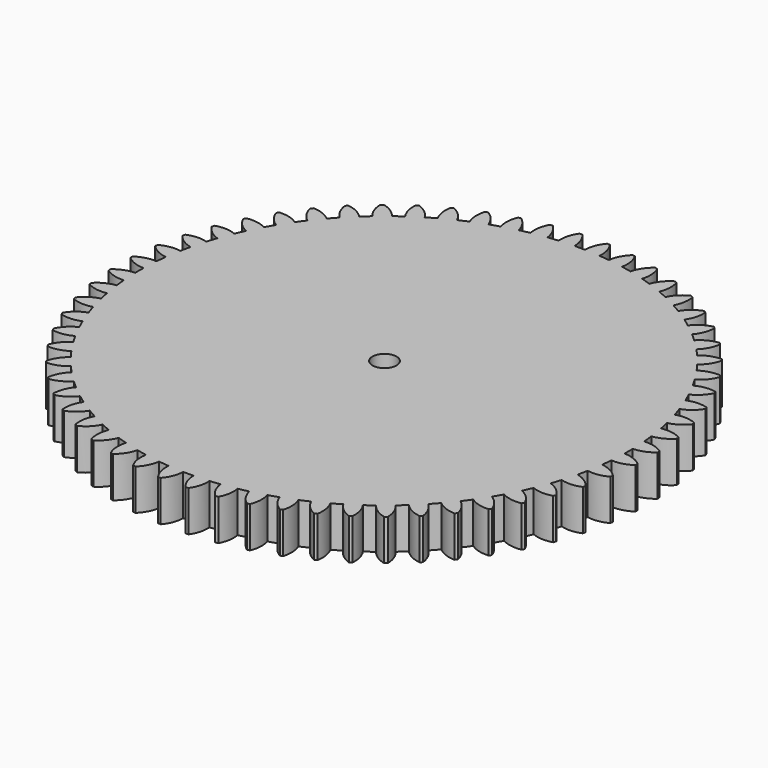
from build123d import *

# Parameters (mm, degrees)
F0_R     = 1.5
F1_DEPTH = 5.08


with BuildPart() as f1:
    # F0 (on Top) → F1 (new body)
    with BuildSketch(Plane.XY):
        with BuildLine():
            Line((-18.010199, -27.417908), (-17.722097, -27.605004))
            ThreePointArc((-17.722097, -27.605004), (-16.600582, -26.983649), (-15.757087, -26.018042))
            ThreePointArc((-15.757087, -26.018042), (-15.208743, -26.342316), (-14.653742, -26.655058))
            ThreePointArc((-14.653742, -26.655058), (-15.068234, -27.86835), (-15.045586, -29.150289))
            Line((-15.045586, -29.150289), (-14.739505, -29.306244))
            ThreePointArc((-14.739505, -29.306244), (-13.689083, -28.571063), (-12.951142, -27.522577))
            ThreePointArc((-12.951142, -27.522577), (-12.371906, -27.787756), (-11.787255, -28.040772))
            ThreePointArc((-11.787255, -28.040772), (-12.072653, -29.290744), (-11.91613, -30.563292))
            Line((-11.91613, -30.563292), (-11.595424, -30.6864))
            ThreePointArc((-11.595424, -30.6864), (-10.627603, -29.845446), (-10.003301, -28.725568))
            ThreePointArc((-10.003301, -28.725568), (-9.39952, -28.928749), (-8.791625, -29.119266))
            ThreePointArc((-8.791625, -29.119266), (-8.944802, -30.392222), (-8.656118, -31.641438))
            Line((-8.656118, -31.641438), (-8.324301, -31.730348))
            ThreePointArc((-8.324301, -31.730348), (-7.449685, -30.792837), (-6.945863, -29.613836))
            ThreePointArc((-6.945863, -29.613836), (-6.324151, -29.752791), (-5.699671, -29.878722))
            ThreePointArc((-5.699671, -29.878722), (-5.718949, -31.160716), (-5.301268, -32.372914))
            Line((-5.301268, -32.372914), (-4.961975, -32.426652))
            ThreePointArc((-4.961975, -32.426652), (-4.190147, -31.402855), (-3.812324, -30.177649))
            ThreePointArc((-3.812324, -30.177649), (-3.179493, -30.250856), (-2.545271, -30.310822))
            ThreePointArc((-2.545271, -30.310822), (-2.430438, -31.587808), (-1.888336, -32.749705))
            Line((-1.888336, -32.749705), (-1.545285, -32.767683))
            ThreePointArc((-1.545285, -32.767683), (-0.884701, -31.668816), (-0.637016, -30.410829))
            ThreePointArc((-0.637016, -30.410829), (0, -30.417486), (0.637016, -30.410829))
            ThreePointArc((0.637016, -30.410829), (0.884701, -31.668816), (1.545285, -32.767683))
            Line((1.545285, -32.767683), (1.888336, -32.749705))
            ThreePointArc((1.888336, -32.749705), (2.430438, -31.587808), (2.545271, -30.310822))
            ThreePointArc((2.545271, -30.310822), (3.179493, -30.250856), (3.812324, -30.177649))
            ThreePointArc((3.812324, -30.177649), (4.190147, -31.402855), (4.961975, -32.426652))
            Line((4.961975, -32.426652), (5.301268, -32.372914))
            ThreePointArc((5.301268, -32.372914), (5.718949, -31.160716), (5.699671, -29.878722))
            ThreePointArc((5.699671, -29.878722), (6.324151, -29.752791), (6.945863, -29.613836))
            ThreePointArc((6.945863, -29.613836), (7.449685, -30.792837), (8.324301, -31.730348))
            Line((8.324301, -31.730348), (8.656118, -31.641438))
            ThreePointArc((8.656118, -31.641438), (8.944802, -30.392222), (8.791625, -29.119266))
            ThreePointArc((8.791625, -29.119266), (9.39952, -28.928749), (10.003301, -28.725568))
            ThreePointArc((10.003301, -28.725568), (10.627603, -29.845446), (11.595424, -30.6864))
            Line((11.595424, -30.6864), (11.91613, -30.563292))
            ThreePointArc((11.91613, -30.563292), (12.072653, -29.290744), (11.787255, -28.040772))
            ThreePointArc((11.787255, -28.040772), (12.371906, -27.787756), (12.951142, -27.522577))
            ThreePointArc((12.951142, -27.522577), (13.689083, -28.571063), (14.739505, -29.306244))
            Line((14.739505, -29.306244), (15.045586, -29.150289))
            ThreePointArc((15.045586, -29.150289), (15.068234, -27.86835), (14.653742, -26.655058))
            ThreePointArc((14.653742, -26.655058), (15.208743, -26.342316), (15.757087, -26.018042))
            ThreePointArc((15.757087, -26.018042), (16.600582, -26.983649), (17.722097, -27.605004))
            Line((17.722097, -27.605004), (18.010199, -27.417908))
            ThreePointArc((18.010199, -27.417908), (17.898725, -26.140625), (17.35968, -24.977306))
            ThreePointArc((17.35968, -24.977306), (17.87895, -24.608263), (18.390394, -24.228449))
            ThreePointArc((18.390394, -24.228449), (19.330201, -25.100596), (20.510523, -25.601317))
            Line((20.510523, -25.601317), (20.777489, -25.385132))
            ThreePointArc((20.777489, -25.385132), (20.533113, -24.126497), (19.875421, -23.025897))
            ThreePointArc((19.875421, -23.025897), (20.353271, -22.604598), (20.822212, -22.173403))
            ThreePointArc((20.822212, -22.173403), (21.848035, -22.942536), (23.07423, -23.317137))
            Line((23.07423, -23.317137), (23.317137, -23.07423))
            ThreePointArc((23.317137, -23.07423), (22.942536, -21.848035), (22.173403, -20.822212))
            ThreePointArc((22.173403, -20.822212), (22.604598, -20.353271), (23.025897, -19.875421))
            ThreePointArc((23.025897, -19.875421), (24.126497, -20.533113), (25.385132, -20.777489))
            Line((25.385132, -20.777489), (25.601317, -20.510523))
            ThreePointArc((25.601317, -20.510523), (25.100596, -19.330201), (24.228449, -18.390394))
            ThreePointArc((24.228449, -18.390394), (24.608263, -17.87895), (24.977306, -17.35968))
            ThreePointArc((24.977306, -17.35968), (26.140625, -17.898725), (27.417908, -18.010199))
            Line((27.417908, -18.010199), (27.605004, -17.722097))
            ThreePointArc((27.605004, -17.722097), (26.983649, -16.600582), (26.018042, -15.757087))
            ThreePointArc((26.018042, -15.757087), (26.342316, -15.208743), (26.655058, -14.653742))
            ThreePointArc((26.655058, -14.653742), (27.86835, -15.068234), (29.150289, -15.045586))
            Line((29.150289, -15.045586), (29.306244, -14.739505))
            ThreePointArc((29.306244, -14.739505), (28.571063, -13.689083), (27.522577, -12.951142))
            ThreePointArc((27.522577, -12.951142), (27.787756, -12.371906), (28.040772, -11.787255))
            ThreePointArc((28.040772, -11.787255), (29.290744, -12.072653), (30.563292, -11.91613))
            Line((30.563292, -11.91613), (30.6864, -11.595424))
            ThreePointArc((30.6864, -11.595424), (29.845446, -10.627603), (28.725568, -10.003301))
            ThreePointArc((28.725568, -10.003301), (28.928749, -9.39952), (29.119266, -8.791625))
            ThreePointArc((29.119266, -8.791625), (30.392222, -8.944802), (31.641438, -8.656118))
            Line((31.641438, -8.656118), (31.730348, -8.324301))
            ThreePointArc((31.730348, -8.324301), (30.792837, -7.449685), (29.613836, -6.945863))
            ThreePointArc((29.613836, -6.945863), (29.752791, -6.324151), (29.878722, -5.699671))
            ThreePointArc((29.878722, -5.699671), (31.160716, -5.718949), (32.372914, -5.301268))
            Line((32.372914, -5.301268), (32.426652, -4.961975))
            ThreePointArc((32.426652, -4.961975), (31.402855, -4.190147), (30.177649, -3.812324))
            ThreePointArc((30.177649, -3.812324), (30.250856, -3.179493), (30.310822, -2.545271))
            ThreePointArc((30.310822, -2.545271), (31.587808, -2.430438), (32.749705, -1.888336))
            Line((32.749705, -1.888336), (32.767683, -1.545285))
            ThreePointArc((32.767683, -1.545285), (31.668816, -0.884701), (30.410829, -0.637016))
            ThreePointArc((30.410829, -0.637016), (30.417486, 0), (30.410829, 0.637016))
            ThreePointArc((30.410829, 0.637016), (31.668816, 0.884701), (32.767683, 1.545285))
            Line((32.767683, 1.545285), (32.749705, 1.888336))
            ThreePointArc((32.749705, 1.888336), (31.587808, 2.430438), (30.310822, 2.545271))
            ThreePointArc((30.310822, 2.545271), (30.250856, 3.179493), (30.177649, 3.812324))
            ThreePointArc((30.177649, 3.812324), (31.402855, 4.190147), (32.426652, 4.961975))
            Line((32.426652, 4.961975), (32.372914, 5.301268))
            ThreePointArc((32.372914, 5.301268), (31.160716, 5.718949), (29.878722, 5.699671))
            ThreePointArc((29.878722, 5.699671), (29.752791, 6.324151), (29.613836, 6.945863))
            ThreePointArc((29.613836, 6.945863), (30.792837, 7.449685), (31.730348, 8.324301))
            Line((31.730348, 8.324301), (31.641438, 8.656118))
            ThreePointArc((31.641438, 8.656118), (30.392222, 8.944802), (29.119266, 8.791625))
            ThreePointArc((29.119266, 8.791625), (28.928749, 9.39952), (28.725568, 10.003301))
            ThreePointArc((28.725568, 10.003301), (29.845446, 10.627603), (30.6864, 11.595424))
            Line((30.6864, 11.595424), (30.563292, 11.91613))
            ThreePointArc((30.563292, 11.91613), (29.290744, 12.072653), (28.040772, 11.787255))
            ThreePointArc((28.040772, 11.787255), (27.787756, 12.371906), (27.522577, 12.951142))
            ThreePointArc((27.522577, 12.951142), (28.571063, 13.689083), (29.306244, 14.739505))
            Line((29.306244, 14.739505), (29.150289, 15.045586))
            ThreePointArc((29.150289, 15.045586), (27.86835, 15.068234), (26.655058, 14.653742))
            ThreePointArc((26.655058, 14.653742), (26.342316, 15.208743), (26.018042, 15.757087))
            ThreePointArc((26.018042, 15.757087), (26.983649, 16.600582), (27.605004, 17.722097))
            Line((27.605004, 17.722097), (27.417908, 18.010199))
            ThreePointArc((27.417908, 18.010199), (26.140625, 17.898725), (24.977306, 17.35968))
            ThreePointArc((24.977306, 17.35968), (24.608263, 17.87895), (24.228449, 18.390394))
            ThreePointArc((24.228449, 18.390394), (25.100596, 19.330201), (25.601317, 20.510523))
            Line((25.601317, 20.510523), (25.385132, 20.777489))
            ThreePointArc((25.385132, 20.777489), (24.126497, 20.533113), (23.025897, 19.875421))
            ThreePointArc((23.025897, 19.875421), (22.604598, 20.353271), (22.173403, 20.822212))
            ThreePointArc((22.173403, 20.822212), (22.942536, 21.848035), (23.317137, 23.07423))
            Line((23.317137, 23.07423), (23.07423, 23.317137))
            ThreePointArc((23.07423, 23.317137), (21.848035, 22.942536), (20.822212, 22.173403))
            ThreePointArc((20.822212, 22.173403), (20.353271, 22.604598), (19.875421, 23.025897))
            ThreePointArc((19.875421, 23.025897), (20.533113, 24.126497), (20.777489, 25.385132))
            Line((20.777489, 25.385132), (20.510523, 25.601317))
            ThreePointArc((20.510523, 25.601317), (19.330201, 25.100596), (18.390394, 24.228449))
            ThreePointArc((18.390394, 24.228449), (17.87895, 24.608263), (17.35968, 24.977306))
            ThreePointArc((17.35968, 24.977306), (17.898725, 26.140625), (18.010199, 27.417908))
            Line((18.010199, 27.417908), (17.722097, 27.605004))
            ThreePointArc((17.722097, 27.605004), (16.600582, 26.983649), (15.757087, 26.018042))
            ThreePointArc((15.757087, 26.018042), (15.208743, 26.342316), (14.653742, 26.655058))
            ThreePointArc((14.653742, 26.655058), (15.068234, 27.86835), (15.045586, 29.150289))
            Line((15.045586, 29.150289), (14.739505, 29.306244))
            ThreePointArc((14.739505, 29.306244), (13.689083, 28.571063), (12.951142, 27.522577))
            ThreePointArc((12.951142, 27.522577), (12.371906, 27.787756), (11.787255, 28.040772))
            ThreePointArc((11.787255, 28.040772), (12.072653, 29.290744), (11.91613, 30.563292))
            Line((11.91613, 30.563292), (11.595424, 30.6864))
            ThreePointArc((11.595424, 30.6864), (10.627603, 29.845446), (10.003301, 28.725568))
            ThreePointArc((10.003301, 28.725568), (9.39952, 28.928749), (8.791625, 29.119266))
            ThreePointArc((8.791625, 29.119266), (8.944802, 30.392222), (8.656118, 31.641438))
            Line((8.656118, 31.641438), (8.324301, 31.730348))
            ThreePointArc((8.324301, 31.730348), (7.449685, 30.792837), (6.945863, 29.613836))
            ThreePointArc((6.945863, 29.613836), (6.324151, 29.752791), (5.699671, 29.878722))
            ThreePointArc((5.699671, 29.878722), (5.718949, 31.160716), (5.301268, 32.372914))
            Line((5.301268, 32.372914), (4.961975, 32.426652))
            ThreePointArc((4.961975, 32.426652), (4.190147, 31.402855), (3.812324, 30.177649))
            ThreePointArc((3.812324, 30.177649), (3.179493, 30.250856), (2.545271, 30.310822))
            ThreePointArc((2.545271, 30.310822), (2.430438, 31.587808), (1.888336, 32.749705))
            Line((1.888336, 32.749705), (1.545285, 32.767683))
            ThreePointArc((1.545285, 32.767683), (0.884701, 31.668816), (0.637016, 30.410829))
            ThreePointArc((0.637016, 30.410829), (0, 30.417486), (-0.637016, 30.410829))
            ThreePointArc((-0.637016, 30.410829), (-0.884701, 31.668816), (-1.545285, 32.767683))
            Line((-1.545285, 32.767683), (-1.888336, 32.749705))
            ThreePointArc((-1.888336, 32.749705), (-2.430438, 31.587808), (-2.545271, 30.310822))
            ThreePointArc((-2.545271, 30.310822), (-3.179493, 30.250856), (-3.812324, 30.177649))
            ThreePointArc((-3.812324, 30.177649), (-4.190147, 31.402855), (-4.961975, 32.426652))
            Line((-4.961975, 32.426652), (-5.301268, 32.372914))
            ThreePointArc((-5.301268, 32.372914), (-5.718949, 31.160716), (-5.699671, 29.878722))
            ThreePointArc((-5.699671, 29.878722), (-6.324151, 29.752791), (-6.945863, 29.613836))
            ThreePointArc((-6.945863, 29.613836), (-7.449685, 30.792837), (-8.324301, 31.730348))
            Line((-8.324301, 31.730348), (-8.656118, 31.641438))
            ThreePointArc((-8.656118, 31.641438), (-8.944802, 30.392222), (-8.791625, 29.119266))
            ThreePointArc((-8.791625, 29.119266), (-9.39952, 28.928749), (-10.003301, 28.725568))
            ThreePointArc((-10.003301, 28.725568), (-10.627603, 29.845446), (-11.595424, 30.6864))
            Line((-11.595424, 30.6864), (-11.91613, 30.563292))
            ThreePointArc((-11.91613, 30.563292), (-12.072653, 29.290744), (-11.787255, 28.040772))
            ThreePointArc((-11.787255, 28.040772), (-12.371906, 27.787756), (-12.951142, 27.522577))
            ThreePointArc((-12.951142, 27.522577), (-13.689083, 28.571063), (-14.739505, 29.306244))
            Line((-14.739505, 29.306244), (-15.045586, 29.150289))
            ThreePointArc((-15.045586, 29.150289), (-15.068234, 27.86835), (-14.653742, 26.655058))
            ThreePointArc((-14.653742, 26.655058), (-15.208743, 26.342316), (-15.757087, 26.018042))
            ThreePointArc((-15.757087, 26.018042), (-16.600582, 26.983649), (-17.722097, 27.605004))
            Line((-17.722097, 27.605004), (-18.010199, 27.417908))
            ThreePointArc((-18.010199, 27.417908), (-17.898725, 26.140625), (-17.35968, 24.977306))
            ThreePointArc((-17.35968, 24.977306), (-17.87895, 24.608263), (-18.390394, 24.228449))
            ThreePointArc((-18.390394, 24.228449), (-19.330201, 25.100596), (-20.510523, 25.601317))
            Line((-20.510523, 25.601317), (-20.777489, 25.385132))
            ThreePointArc((-20.777489, 25.385132), (-20.533113, 24.126497), (-19.875421, 23.025897))
            ThreePointArc((-19.875421, 23.025897), (-20.353271, 22.604598), (-20.822212, 22.173403))
            ThreePointArc((-20.822212, 22.173403), (-21.848035, 22.942536), (-23.07423, 23.317137))
            Line((-23.07423, 23.317137), (-23.317137, 23.07423))
            ThreePointArc((-23.317137, 23.07423), (-22.942536, 21.848035), (-22.173403, 20.822212))
            ThreePointArc((-22.173403, 20.822212), (-22.604598, 20.353271), (-23.025897, 19.875421))
            ThreePointArc((-23.025897, 19.875421), (-24.126497, 20.533113), (-25.385132, 20.777489))
            Line((-25.385132, 20.777489), (-25.601317, 20.510523))
            ThreePointArc((-25.601317, 20.510523), (-25.100596, 19.330201), (-24.228449, 18.390394))
            ThreePointArc((-24.228449, 18.390394), (-24.608263, 17.87895), (-24.977306, 17.35968))
            ThreePointArc((-24.977306, 17.35968), (-26.140625, 17.898725), (-27.417908, 18.010199))
            Line((-27.417908, 18.010199), (-27.605004, 17.722097))
            ThreePointArc((-27.605004, 17.722097), (-26.983649, 16.600582), (-26.018042, 15.757087))
            ThreePointArc((-26.018042, 15.757087), (-26.342316, 15.208743), (-26.655058, 14.653742))
            ThreePointArc((-26.655058, 14.653742), (-27.86835, 15.068234), (-29.150289, 15.045586))
            Line((-29.150289, 15.045586), (-29.306244, 14.739505))
            ThreePointArc((-29.306244, 14.739505), (-28.571063, 13.689083), (-27.522577, 12.951142))
            ThreePointArc((-27.522577, 12.951142), (-27.787756, 12.371906), (-28.040772, 11.787255))
            ThreePointArc((-28.040772, 11.787255), (-29.290744, 12.072653), (-30.563292, 11.91613))
            Line((-30.563292, 11.91613), (-30.6864, 11.595424))
            ThreePointArc((-30.6864, 11.595424), (-29.845446, 10.627603), (-28.725568, 10.003301))
            ThreePointArc((-28.725568, 10.003301), (-28.928749, 9.39952), (-29.119266, 8.791625))
            ThreePointArc((-29.119266, 8.791625), (-30.392222, 8.944802), (-31.641438, 8.656118))
            Line((-31.641438, 8.656118), (-31.730348, 8.324301))
            ThreePointArc((-31.730348, 8.324301), (-30.792837, 7.449685), (-29.613836, 6.945863))
            ThreePointArc((-29.613836, 6.945863), (-29.752791, 6.324151), (-29.878722, 5.699671))
            ThreePointArc((-29.878722, 5.699671), (-31.160716, 5.718949), (-32.372914, 5.301268))
            Line((-32.372914, 5.301268), (-32.426652, 4.961975))
            ThreePointArc((-32.426652, 4.961975), (-31.402855, 4.190147), (-30.177649, 3.812324))
            ThreePointArc((-30.177649, 3.812324), (-30.250856, 3.179493), (-30.310822, 2.545271))
            ThreePointArc((-30.310822, 2.545271), (-31.587808, 2.430438), (-32.749705, 1.888336))
            Line((-32.749705, 1.888336), (-32.767683, 1.545285))
            ThreePointArc((-32.767683, 1.545285), (-31.668816, 0.884701), (-30.410829, 0.637016))
            ThreePointArc((-30.410829, 0.637016), (-30.417486, 0), (-30.410829, -0.637016))
            ThreePointArc((-30.410829, -0.637016), (-31.668816, -0.884701), (-32.767683, -1.545285))
            Line((-32.767683, -1.545285), (-32.749705, -1.888336))
            ThreePointArc((-32.749705, -1.888336), (-31.587808, -2.430438), (-30.310822, -2.545271))
            ThreePointArc((-30.310822, -2.545271), (-30.250856, -3.179493), (-30.177649, -3.812324))
            ThreePointArc((-30.177649, -3.812324), (-31.402855, -4.190147), (-32.426652, -4.961975))
            Line((-32.426652, -4.961975), (-32.372914, -5.301268))
            ThreePointArc((-32.372914, -5.301268), (-31.160716, -5.718949), (-29.878722, -5.699671))
            ThreePointArc((-29.878722, -5.699671), (-29.752791, -6.324151), (-29.613836, -6.945863))
            ThreePointArc((-29.613836, -6.945863), (-30.792837, -7.449685), (-31.730348, -8.324301))
            Line((-31.730348, -8.324301), (-31.641438, -8.656118))
            ThreePointArc((-31.641438, -8.656118), (-30.392222, -8.944802), (-29.119266, -8.791625))
            ThreePointArc((-29.119266, -8.791625), (-28.928749, -9.39952), (-28.725568, -10.003301))
            ThreePointArc((-28.725568, -10.003301), (-29.845446, -10.627603), (-30.6864, -11.595424))
            Line((-30.6864, -11.595424), (-30.563292, -11.91613))
            ThreePointArc((-30.563292, -11.91613), (-29.290744, -12.072653), (-28.040772, -11.787255))
            ThreePointArc((-28.040772, -11.787255), (-27.787756, -12.371906), (-27.522577, -12.951142))
            ThreePointArc((-27.522577, -12.951142), (-28.571063, -13.689083), (-29.306244, -14.739505))
            Line((-29.306244, -14.739505), (-29.150289, -15.045586))
            ThreePointArc((-29.150289, -15.045586), (-27.86835, -15.068234), (-26.655058, -14.653742))
            ThreePointArc((-26.655058, -14.653742), (-26.342316, -15.208743), (-26.018042, -15.757087))
            ThreePointArc((-26.018042, -15.757087), (-26.983649, -16.600582), (-27.605004, -17.722097))
            Line((-27.605004, -17.722097), (-27.417908, -18.010199))
            ThreePointArc((-27.417908, -18.010199), (-26.140625, -17.898725), (-24.977306, -17.35968))
            ThreePointArc((-24.977306, -17.35968), (-24.608263, -17.87895), (-24.228449, -18.390394))
            ThreePointArc((-24.228449, -18.390394), (-25.100596, -19.330201), (-25.601317, -20.510523))
            Line((-25.601317, -20.510523), (-25.385132, -20.777489))
            ThreePointArc((-25.385132, -20.777489), (-24.126497, -20.533113), (-23.025897, -19.875421))
            ThreePointArc((-23.025897, -19.875421), (-22.604598, -20.353271), (-22.173403, -20.822212))
            ThreePointArc((-22.173403, -20.822212), (-22.942536, -21.848035), (-23.317137, -23.07423))
            Line((-23.317137, -23.07423), (-23.07423, -23.317137))
            ThreePointArc((-23.07423, -23.317137), (-21.848035, -22.942536), (-20.822212, -22.173403))
            ThreePointArc((-20.822212, -22.173403), (-20.353271, -22.604598), (-19.875421, -23.025897))
            ThreePointArc((-19.875421, -23.025897), (-20.533113, -24.126497), (-20.777489, -25.385132))
            Line((-20.777489, -25.385132), (-20.510523, -25.601317))
            ThreePointArc((-20.510523, -25.601317), (-19.330201, -25.100596), (-18.390394, -24.228449))
            ThreePointArc((-18.390394, -24.228449), (-17.87895, -24.608263), (-17.35968, -24.977306))
            ThreePointArc((-17.35968, -24.977306), (-17.898725, -26.140625), (-18.010199, -27.417908))
        make_face()
        with Locations((0.062514, 0)):
            Circle(F0_R, mode=Mode.SUBTRACT)
    extrude(amount=F1_DEPTH)


solid = f1.part
